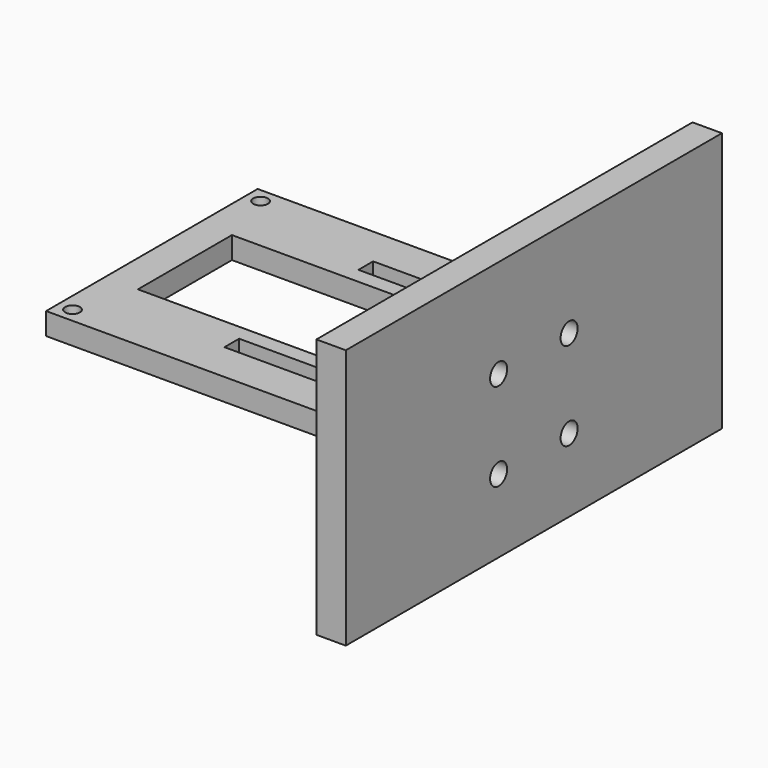
from build123d import *

# Parameters (mm, degrees)
SKETCH005_W     = 64
SKETCH005_H     = 35.4
PAD_DEPTH       = 4
SKETCH_R        = 3
POCKET_DEPTH    = 2
SKETCH006_R     = 1.45
POCKET001_DEPTH = 5
SKETCH007_W     = 36
SKETCH007_H     = 3
PAD001_DEPTH    = 48
SKETCH008_R     = 1
SKETCH008_W     = 16
SKETCH008_H     = 24.5
POCKET002_DEPTH = 5


with BuildPart() as part:
    # Sketch005 → Pad (new body)
    with BuildSketch(Plane.YZ.offset(20.5)):
        with Locations((0, 17.7)):
            Rectangle(SKETCH005_W, SKETCH005_H)
    extrude(amount=PAD_DEPTH)

    # Sketch (on Face5 of Pad) → Pocket (cut)
    with BuildSketch(Plane(origin=(20.5, 0, 0), x_dir=(0, 1, 0), z_dir=(-1, 0, 0))):
        with Locations((6, -22)):
            Circle(SKETCH_R)
        with Locations((-6, -22)):
            Circle(SKETCH_R)
        with Locations((6, -10)):
            Circle(SKETCH_R)
        with Locations((-6, -10)):
            Circle(SKETCH_R)
    extrude(amount=-POCKET_DEPTH, mode=Mode.SUBTRACT)

    # Sketch006 (on Face4 of Pocket) → Pocket001 (cut)
    with BuildSketch(Plane(origin=(20.5, 0, 0), x_dir=(0, 1, 0), z_dir=(-1, 0, 0))):
        with Locations((6, -22)):
            Circle(SKETCH006_R)
        with Locations((-6, -22)):
            Circle(SKETCH006_R)
        with Locations((6, -10)):
            Circle(SKETCH006_R)
        with Locations((-6, -10)):
            Circle(SKETCH006_R)
    extrude(amount=-POCKET001_DEPTH, mode=Mode.SUBTRACT)

    # Sketch007 (on Face4 of Pocket001) → Pad001 (join)
    with BuildSketch(Plane(origin=(20.5, 0, 0), x_dir=(0, 1, 0), z_dir=(-1, 0, 0))):
        with Locations((0, -16)):
            Rectangle(SKETCH007_W, SKETCH007_H)
    extrude(amount=PAD001_DEPTH)

    # Sketch008 (on Face9 of Pad001) → Pocket002 (cut)
    with BuildSketch(Plane(origin=(20.5, 0, 14.5), x_dir=(0, 1, 0), z_dir=(0, 0, -1))):
        with Locations((16, -46)):
            Circle(SKETCH008_R)
        with Locations((-16, -46)):
            Circle(SKETCH008_R)
        with Locations((16, -2)):
            Circle(SKETCH008_R)
        with Locations((-16, -2)):
            Circle(SKETCH008_R)
        Polygon((12.65, -28), (10.15, -28), (10.15, -16), (-10.15, -16), (-10.15, -28), (-12.65, -28), (-12.65, -7), (-10.15, -7), (-10.15, -4), (10.15, -4), (10.15, -7), (12.65, -7), align=None)
        with Locations((0, -31.25)):
            Rectangle(SKETCH008_W, SKETCH008_H)
    extrude(amount=-POCKET002_DEPTH, mode=Mode.SUBTRACT)


solid = part.part
